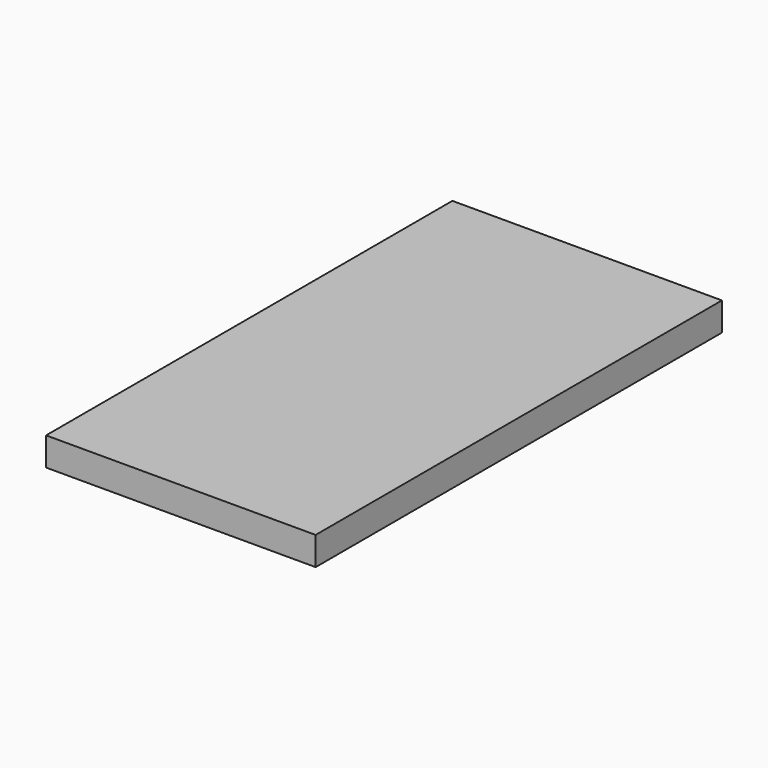
from build123d import *

# Parameters (mm, degrees)
SKETCH001_W  = 95
SKETCH001_H  = 179
PAD001_DEPTH = 10
POCKET_DEPTH = 8
FILLET_R     = 3


with BuildPart() as part:
    # Sketch001 → Pad001 (new body)
    with BuildSketch(Plane.XY):
        with Locations((47.5, 89.5)):
            Rectangle(SKETCH001_W, SKETCH001_H)
    extrude(amount=PAD001_DEPTH)

    # Sketch → Pocket (cut)
    with BuildSketch(Plane.XY):
        with BuildLine():
            Line((17, 169), (78, 169))
            ThreePointArc((85, 162), (82.949747, 166.949747), (78, 169))
            Line((85, 162), (85, 17))
            ThreePointArc((78, 10), (82.949747, 12.050253), (85, 17))
            Line((78, 10), (17, 10))
            ThreePointArc((10, 17), (12.050253, 12.050253), (17, 10))
            Line((10, 17), (10, 162))
            ThreePointArc((17, 169), (12.050253, 166.949747), (10, 162))
        make_face()
    extrude(amount=POCKET_DEPTH, mode=Mode.SUBTRACT)

    # Fillet
    fillet_edges = [part.edges().sort_by_distance(p)[0] for p in [
        (10, 89.5, 8),
    ]]
    fillet(fillet_edges, radius=FILLET_R)


solid = part.part
